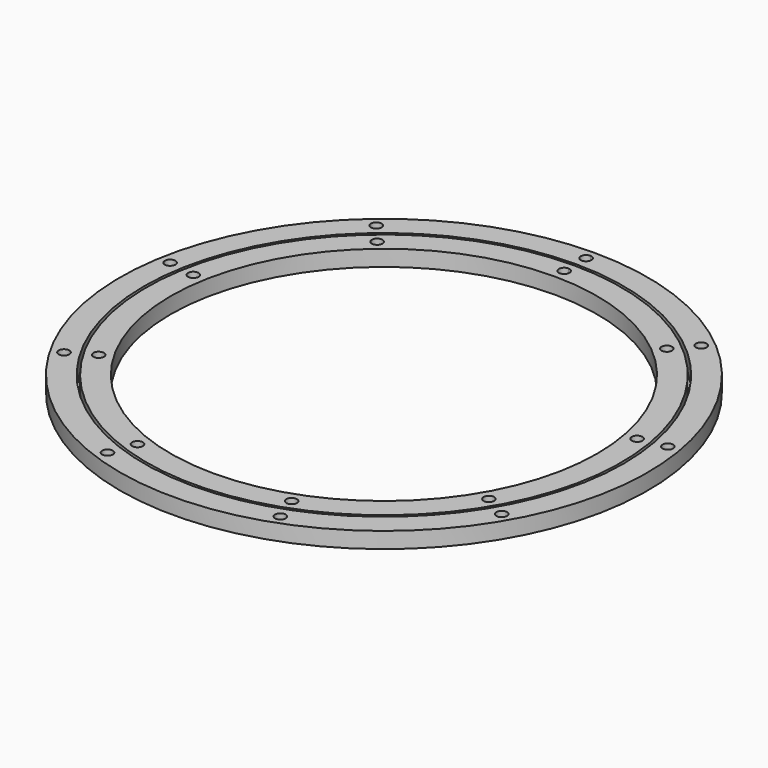
from build123d import *

# Parameters (mm, degrees)
F0_R     = 5
F1_DEPTH = 15


with BuildPart() as f1:
    # F0 (on Top) → F1 (new body)
    with BuildSketch(Plane.XY):
        with BuildLine():
            ThreePointArc((222.5, 0), (157.331258814, 157.331258814), (0, 222.5))
            ThreePointArc((0, 222.5), (-157.331258814, -157.331258814), (222.5, 0))
        make_face()
        with Locations((-72.2517552775, -198.510066141)):
            Circle(F0_R, mode=Mode.SUBTRACT)
        with Locations((-182.9478665495, -105.625)):
            Circle(F0_R, mode=Mode.SUBTRACT)
        with Locations((72.2517552775, -198.510066141)):
            Circle(F0_R, mode=Mode.SUBTRACT)
        with Locations((182.9478665495, -105.625)):
            Circle(F0_R, mode=Mode.SUBTRACT)
        with Locations((-208.0406378238, 36.6831775321)):
            Circle(F0_R, mode=Mode.SUBTRACT)
        with Locations((-135.7888825463, 161.8268886089)):
            Circle(F0_R, mode=Mode.SUBTRACT)
        with BuildLine():
            ThreePointArc((0, 200), (141.4213562373, 141.4213562373), (200, 0))
            ThreePointArc((200, 0), (-141.4213562373, -141.4213562373), (0, 200))
        make_face(mode=Mode.SUBTRACT)
        with Locations((208.0406378238, 36.6831775321)):
            Circle(F0_R, mode=Mode.SUBTRACT)
        with BuildLine():
            ThreePointArc((5, 211.25), (3.5355339059, 207.7144660941), (0, 206.25))
            ThreePointArc((0, 206.25), (-5, 211.25), (0, 216.25))
            ThreePointArc((0, 216.25), (3.5355339059, 214.7855339059), (5, 211.25))
        make_face(mode=Mode.SUBTRACT)
        with Locations((135.7888825463, 161.8268886089)):
            Circle(F0_R, mode=Mode.SUBTRACT)
    extrude(amount=F1_DEPTH)


with BuildPart() as f1b:
    # F0 (on Top) → F1, piece 2 (new body)
    with BuildSketch(Plane.XY):
        with BuildLine():
            ThreePointArc((247.5, 0), (175.0089283437, 175.0089283437), (0, 247.5))
            ThreePointArc((0, 247.5), (-175.0089283437, -175.0089283437), (247.5, 0))
        make_face()
        with Locations((-81.0393422064, -222.6537627996)):
            Circle(F0_R, mode=Mode.SUBTRACT)
        with Locations((-205.1988177489, -118.4715926647)):
            Circle(F0_R, mode=Mode.SUBTRACT)
        with Locations((81.0393422064, -222.6537627996)):
            Circle(F0_R, mode=Mode.SUBTRACT)
        with Locations((205.1988177489, -118.4715926647)):
            Circle(F0_R, mode=Mode.SUBTRACT)
        with Locations((-233.3434859358, 41.1447523431)):
            Circle(F0_R, mode=Mode.SUBTRACT)
        with Locations((-152.3041437294, 181.5090104565)):
            Circle(F0_R, mode=Mode.SUBTRACT)
        with BuildLine():
            ThreePointArc((225, 0), (-159.099025767, -159.099025767), (0, 225))
            ThreePointArc((0, 225), (159.099025767, 159.099025767), (225, 0))
        make_face(mode=Mode.SUBTRACT)
        with Locations((233.3434859358, 41.1447523431)):
            Circle(F0_R, mode=Mode.SUBTRACT)
        with BuildLine():
            ThreePointArc((5, 236.9431853294), (3.5355339059, 233.4076514235), (0, 231.9431853294))
            ThreePointArc((0, 231.9431853294), (-5, 236.9431853294), (0, 241.9431853294))
            ThreePointArc((0, 241.9431853294), (3.5355339059, 240.4787192354), (5, 236.9431853294))
        make_face(mode=Mode.SUBTRACT)
        with Locations((152.3041437294, 181.5090104565)):
            Circle(F0_R, mode=Mode.SUBTRACT)
    extrude(amount=F1_DEPTH)


solid = Compound([f1.part, f1b.part])
